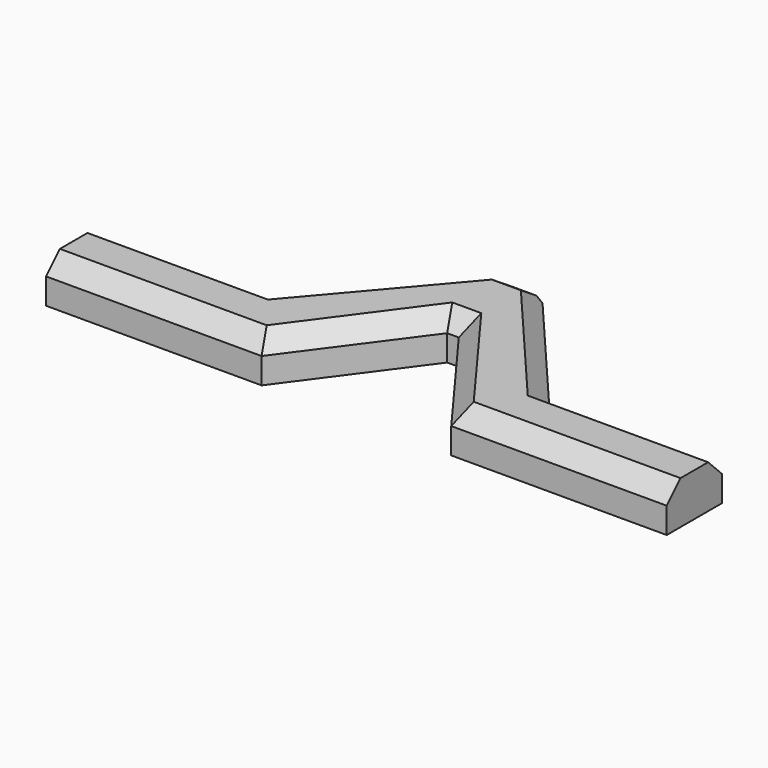
from build123d import *

# Parameters (mm, degrees)
F2_DEPTH = 2.5
F4_SIZE  = 1
F5_SIZE  = 1


with BuildPart() as f2:
    # F1 (on face) → F2 (new body)
    with BuildSketch(Plane.XY):
        Polygon((-8, -1), (-18, -1), (-18, -5), (-5.5, -5), (-0.3375368448, 2), (0, 2), (0, 7), (-1.1940948898, 7), align=None)
    extrude(amount=F2_DEPTH)

    # F3: F2 across plane


with BuildPart() as f2_1:
    add(f2.part)
    add(f2.part.mirror(Plane.YZ))

    # F4 (call 1 of 3: OpenCascade refuses the feature's edges together)
    f4_edges = [f2_1.edges().sort_by_distance(p)[0] for p in [
        (-11.75, -5, 2.5),
        (-2.918768, -1.5, 2.5),
        (2.918768, -1.5, 2.5),
        (11.75, -5, 2.5),
        (0, 2, 2.5),
    ]]
    chamfer(f4_edges, length=F4_SIZE)

    # F4#2 (call 2 of 3)
    f4_2_edges = [f2_1.edges().sort_by_distance(p)[0] for p in [
        (-13, -1, 2.5),
        (-4.597047, 3, 2.5),
    ]]
    chamfer(f4_2_edges, length=F4_SIZE)

    # F4#3 (call 3 of 3)
    f4_3_edges = [f2_1.edges().sort_by_distance(p)[0] for p in [
        (4.597047, 3, 2.5),
        (13, -1, 2.5),
    ]]
    chamfer(f4_3_edges, length=F4_SIZE)

    # F5
    f5_edges = [f2_1.edges().sort_by_distance(p)[0] for p in [
        (0, 6.930164, 2.454748),
    ]]
    chamfer(f5_edges, length=F5_SIZE)


solid = f2_1.part
